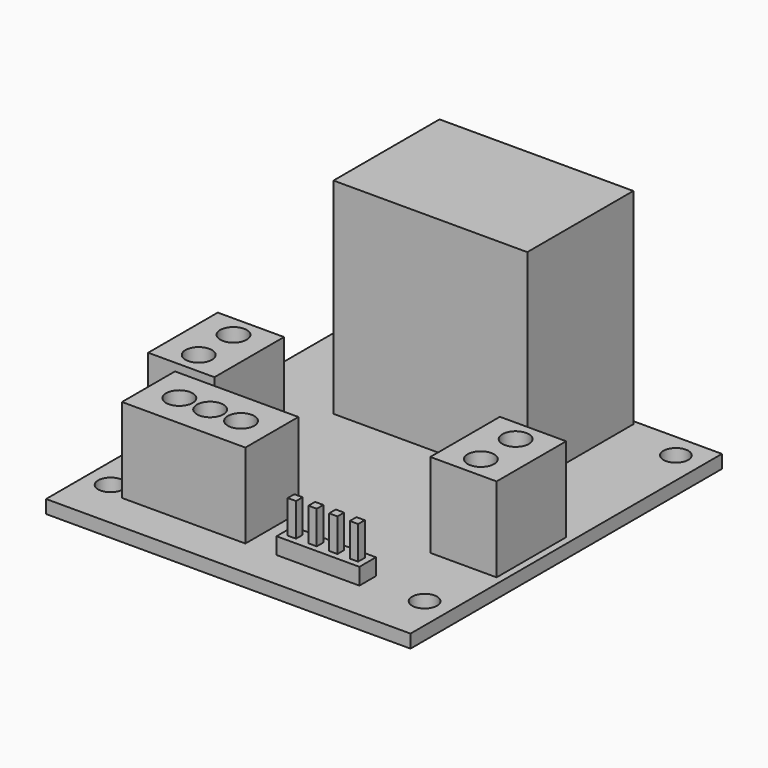
from build123d import *

# Parameters (mm, degrees)
F0_W     = 44
F0_H     = 47
F0_R     = 1.5
F0_W_2   = 14.9
F0_H_2   = 8
F0_W_3   = 8
F0_H_3   = 10.5
F0_W_4   = 23.4
F0_H_4   = 16
F0_R_2   = 1.6
F0_W_5   = 2.5
F0_H_5   = 2.5
F0_W_6   = 1
F0_H_6   = 1
F1_DEPTH = 1.6
F2_DEPTH = 24.8
F3_DEPTH = 10.2
F4_DEPTH = 6
F5_DEPTH = 2
F6_DEPTH = 6


with BuildPart() as f1:
    # F0 (on Top) → F1 (new body)
    with BuildSketch(Plane.XY):
        Rectangle(F0_W, F0_H)
        with Locations((-19.05, -17.45)):
            Circle(F0_R, mode=Mode.SUBTRACT)
        with Locations((-9.0953609079, -14.8641939312)):
            Rectangle(F0_W_2, F0_H_2, mode=Mode.SUBTRACT)
        with Locations((-16.8999998868, -4.2141940668)):
            Rectangle(F0_W_3, F0_H_3, mode=Mode.SUBTRACT)
        Polygon((4.6191942506, -18.8641939312), (2.1191942506, -18.8641939312), (2.1191942506, -16.3641939312), (4.6191942506, -16.3641939312), (7.1191942506, -16.3641939312), (9.6191942506, -16.3641939312), (12.1191942506, -16.3641939312), (12.1191942506, -18.8641939312), (9.6191942506, -18.8641939312), (7.1191942506, -18.8641939312), align=None, mode=Mode.SUBTRACT)
        with Locations((18.9, -17.5)):
            Circle(F0_R, mode=Mode.SUBTRACT)
        with Locations((17.1648499519, -4.2141940668)):
            Rectangle(F0_W_3, F0_H_3, mode=Mode.SUBTRACT)
        with Locations((-18.8, 20.55)):
            Circle(F0_R, mode=Mode.SUBTRACT)
        with Locations((0, 15)):
            Rectangle(F0_W_4, F0_H_4, mode=Mode.SUBTRACT)
        with Locations((18.8, 20.55)):
            Circle(F0_R, mode=Mode.SUBTRACT)
        with Locations((0, 15)):
            Rectangle(F0_W_4, F0_H_4)
        with Locations((-9.0953609079, -14.8641939312)):
            Rectangle(F0_W_2, F0_H_2)
        with Locations((-12.8203609079, -14.8641939312)):
            Circle(F0_R_2, mode=Mode.SUBTRACT)
        with Locations((-9.0953609079, -14.8641939312)):
            Circle(F0_R_2, mode=Mode.SUBTRACT)
        with Locations((-5.3703609079, -14.8641939312)):
            Circle(F0_R_2, mode=Mode.SUBTRACT)
        with Locations((17.1648499519, -4.2141940668)):
            Rectangle(F0_W_3, F0_H_3)
        with Locations((17.1648499519, -6.8391940668)):
            Circle(F0_R_2, mode=Mode.SUBTRACT)
        with Locations((17.1648499519, -1.5891940668)):
            Circle(F0_R_2, mode=Mode.SUBTRACT)
        with Locations((-16.8999998868, -4.2141940668)):
            Rectangle(F0_W_3, F0_H_3)
        with Locations((-16.8999998868, -6.8391940668)):
            Circle(F0_R_2, mode=Mode.SUBTRACT)
        with Locations((-16.8999998868, -1.5891940668)):
            Circle(F0_R_2, mode=Mode.SUBTRACT)
        with Locations((-16.8999998868, -1.5891940668)):
            Circle(F0_R_2)
        with Locations((-16.8999998868, -6.8391940668)):
            Circle(F0_R_2)
        with Locations((-12.8203609079, -14.8641939312)):
            Circle(F0_R_2)
        with Locations((-9.0953609079, -14.8641939312)):
            Circle(F0_R_2)
        with Locations((-5.3703609079, -14.8641939312)):
            Circle(F0_R_2)
        with Locations((17.1648499519, -6.8391940668)):
            Circle(F0_R_2)
        with Locations((17.1648499519, -1.5891940668)):
            Circle(F0_R_2)
        with Locations((3.3691942506, -17.6141939312)):
            Rectangle(F0_W_5, F0_H_5)
        with Locations((3.3691942506, -17.6141939312)):
            Rectangle(F0_W_6, F0_H_6, mode=Mode.SUBTRACT)
        with Locations((5.8691942506, -17.6141939312)):
            Rectangle(F0_W_5, F0_H_5)
        with Locations((5.8691942506, -17.6141939312)):
            Rectangle(F0_W_6, F0_H_6, mode=Mode.SUBTRACT)
        with Locations((8.3691942506, -17.6141939312)):
            Rectangle(F0_W_5, F0_H_5)
        with Locations((8.3691942506, -17.6141939312)):
            Rectangle(F0_W_6, F0_H_6, mode=Mode.SUBTRACT)
        with Locations((10.8691942506, -17.6141939312)):
            Rectangle(F0_W_5, F0_H_5)
        with Locations((10.8691942506, -17.6141939312)):
            Rectangle(F0_W_6, F0_H_6, mode=Mode.SUBTRACT)
        with Locations((3.3691942506, -17.6141939312)):
            Rectangle(F0_W_6, F0_H_6)
        with Locations((5.8691942506, -17.6141939312)):
            Rectangle(F0_W_6, F0_H_6)
        with Locations((10.8691942506, -17.6141939312)):
            Rectangle(F0_W_6, F0_H_6)
        with Locations((8.3691942506, -17.6141939312)):
            Rectangle(F0_W_6, F0_H_6)
    extrude(amount=-F1_DEPTH)

    # F0 (on Top) → F2 (join)
    with BuildSketch(Plane.XY):
        with Locations((0, 15)):
            Rectangle(F0_W_4, F0_H_4)
    extrude(amount=F2_DEPTH)

    # F0 (on Top) → F3 (join)
    with BuildSketch(Plane.XY):
        with Locations((-16.8999998868, -4.2141940668)):
            Rectangle(F0_W_3, F0_H_3)
        with Locations((-16.8999998868, -6.8391940668)):
            Circle(F0_R_2, mode=Mode.SUBTRACT)
        with Locations((-16.8999998868, -1.5891940668)):
            Circle(F0_R_2, mode=Mode.SUBTRACT)
        with Locations((-9.0953609079, -14.8641939312)):
            Rectangle(F0_W_2, F0_H_2)
        with Locations((-12.8203609079, -14.8641939312)):
            Circle(F0_R_2, mode=Mode.SUBTRACT)
        with Locations((-9.0953609079, -14.8641939312)):
            Circle(F0_R_2, mode=Mode.SUBTRACT)
        with Locations((-5.3703609079, -14.8641939312)):
            Circle(F0_R_2, mode=Mode.SUBTRACT)
        with Locations((17.1648499519, -4.2141940668)):
            Rectangle(F0_W_3, F0_H_3)
        with Locations((17.1648499519, -6.8391940668)):
            Circle(F0_R_2, mode=Mode.SUBTRACT)
        with Locations((17.1648499519, -1.5891940668)):
            Circle(F0_R_2, mode=Mode.SUBTRACT)
    extrude(amount=F3_DEPTH)

    # F0 (on Top) → F4 (join)
    with BuildSketch(Plane.XY):
        with Locations((-16.8999998868, -1.5891940668)):
            Circle(F0_R_2)
        with Locations((-16.8999998868, -6.8391940668)):
            Circle(F0_R_2)
        with Locations((-12.8203609079, -14.8641939312)):
            Circle(F0_R_2)
        with Locations((-9.0953609079, -14.8641939312)):
            Circle(F0_R_2)
        with Locations((-5.3703609079, -14.8641939312)):
            Circle(F0_R_2)
        with Locations((17.1648499519, -6.8391940668)):
            Circle(F0_R_2)
        with Locations((17.1648499519, -1.5891940668)):
            Circle(F0_R_2)
    extrude(amount=F4_DEPTH)

    # F0 (on Top) → F5 (join)
    with BuildSketch(Plane.XY):
        with Locations((3.3691942506, -17.6141939312)):
            Rectangle(F0_W_5, F0_H_5)
        with Locations((3.3691942506, -17.6141939312)):
            Rectangle(F0_W_6, F0_H_6, mode=Mode.SUBTRACT)
        with Locations((5.8691942506, -17.6141939312)):
            Rectangle(F0_W_5, F0_H_5)
        with Locations((5.8691942506, -17.6141939312)):
            Rectangle(F0_W_6, F0_H_6, mode=Mode.SUBTRACT)
        with Locations((8.3691942506, -17.6141939312)):
            Rectangle(F0_W_5, F0_H_5)
        with Locations((8.3691942506, -17.6141939312)):
            Rectangle(F0_W_6, F0_H_6, mode=Mode.SUBTRACT)
        with Locations((10.8691942506, -17.6141939312)):
            Rectangle(F0_W_5, F0_H_5)
        with Locations((10.8691942506, -17.6141939312)):
            Rectangle(F0_W_6, F0_H_6, mode=Mode.SUBTRACT)
    extrude(amount=F5_DEPTH)

    # F0 (on Top) → F6 (join)
    with BuildSketch(Plane.XY):
        with Locations((3.3691942506, -17.6141939312)):
            Rectangle(F0_W_6, F0_H_6)
        with Locations((5.8691942506, -17.6141939312)):
            Rectangle(F0_W_6, F0_H_6)
        with Locations((8.3691942506, -17.6141939312)):
            Rectangle(F0_W_6, F0_H_6)
        with Locations((10.8691942506, -17.6141939312)):
            Rectangle(F0_W_6, F0_H_6)
    extrude(amount=F6_DEPTH)


solid = f1.part
